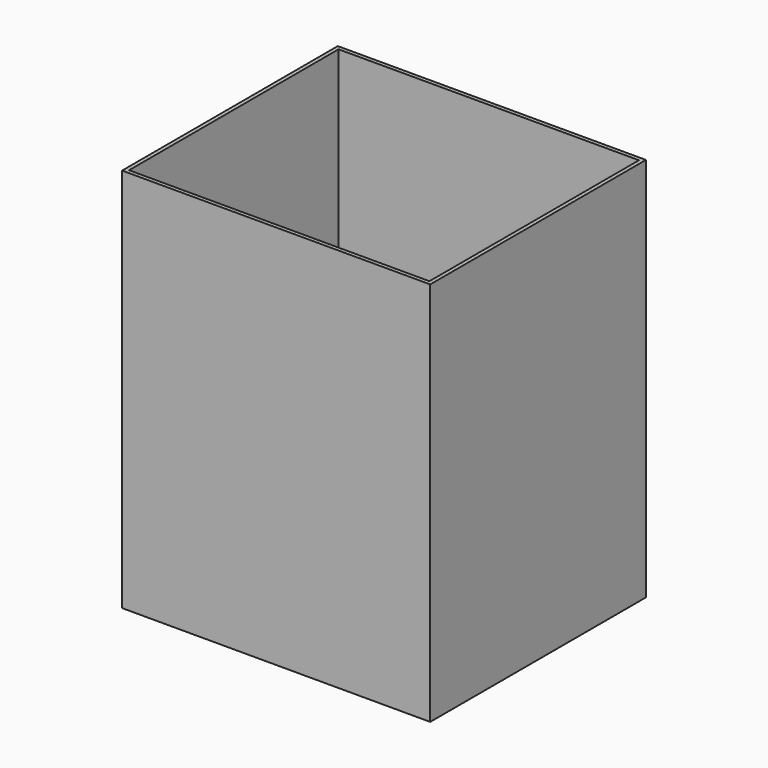
from build123d import *

# Parameters (mm, degrees)
F0_W     = 80
F0_H     = 100
F1_DEPTH = 35
F2_T     = -1


with BuildPart() as f1:
    # F0 (on Front) → F1 (new body, symmetric)
    with BuildSketch(Plane.XZ):
        Rectangle(F0_W, F0_H)
    extrude(amount=F1_DEPTH, both=True)

    # F2
    f2_openings = [f1.faces().sort_by_distance(p)[0] for p in [
        (0, 0, 50),
    ]]
    offset(amount=F2_T, openings=f2_openings)


solid = f1.part
